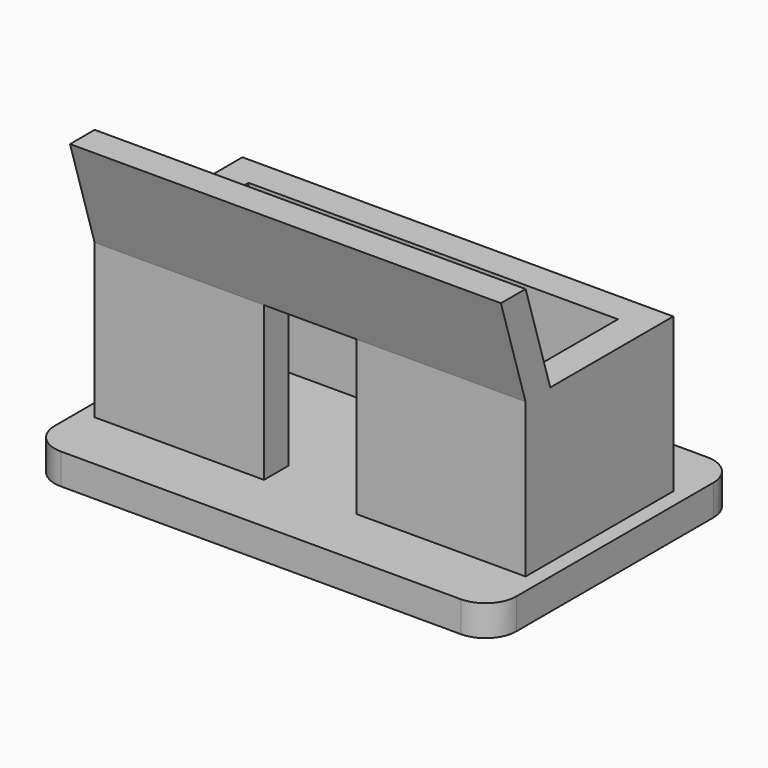
from build123d import *

# Parameters (mm, degrees)
F0_W     = 75
F0_H     = 50
F1_DEPTH = 5
F2_R     = 5
F4_DEPTH = 25
F6_DEPTH = 70


with BuildPart() as f1:
    # F0 (on Top) → F1 (new body)
    with BuildSketch(Plane.XY):
        with Locations((37.5, 25)):
            Rectangle(F0_W, F0_H)
    extrude(amount=F1_DEPTH)

    # F2
    f2_edges = [f1.edges().sort_by_distance(p)[0] for p in [
        (75, 0, 2.5),
        (0, 0, 2.5),
        (0, 50, 2.5),
        (75, 50, 2.5),
    ]]
    fillet(f2_edges, radius=F2_R)

    # F3 (on face) → F4 (join)
    with BuildSketch(Plane.XY.offset(5)):
        Polygon((2.5, 40), (2.5, 10), (30, 10), (30, 15), (7.5, 15), (7.5, 35), (67.5, 35), (67.5, 15), (45, 15), (45, 10), (72.5, 10), (72.5, 40), align=None)
    extrude(amount=F4_DEPTH)

    # F5 (on face) → F6 (join)
    with BuildSketch(Plane(origin=(2.5, 0, 0), x_dir=(0, -1, 0), z_dir=(-1, 0, 0))):
        Polygon((-15, 30), (-10, 30), (-4.996269, 46.118304), (-9.996269, 46.118304), align=None)
    extrude(amount=-F6_DEPTH)


solid = f1.part
